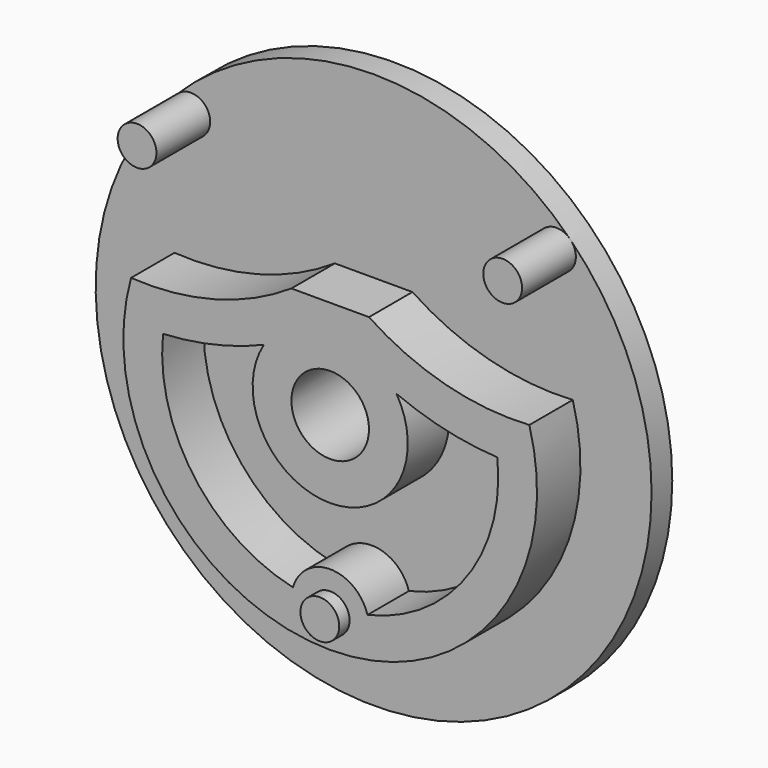
from build123d import *

# Parameters (mm, degrees)
SKETCH_R        = 21.5
PAD_DEPTH       = 2
SKETCH031_R     = 1.5
PAD015_DEPTH    = 5.2
PAD016_DEPTH    = 4.2
SKETCH032_R     = 1.5
PAD017_DEPTH    = 1
POCKET018_DEPTH = 4
SKETCH036_R     = 3
POCKET019_DEPTH = 7.201
SKETCH038_R     = 3
POCKET022_DEPTH = 7.201


with BuildPart() as part:
    # Sketch → Pad (new body)
    with BuildSketch(Plane.XZ):
        Circle(SKETCH_R)
    extrude(amount=PAD_DEPTH)

    # Sketch031 (on Face3 of Pad) → Pad015 (join)
    with BuildSketch(Plane.XZ.offset(2)):
        with Locations((-14.142136, 14.142136)):
            Circle(SKETCH031_R)
        with Locations((14.142136, 14.142136)):
            Circle(SKETCH031_R)
    extrude(amount=PAD015_DEPTH)

    # Sketch017 (on Face3 of Pad) → Pad016 (join)
    with BuildSketch(Plane.XZ.offset(2)):
        with BuildLine():
            ThreePointArc((-15.403137, 4.329363), (-8.931504, 4.97358), (-3, 7.640846))
            Line((-3, 7.640846), (3, 7.640846))
            ThreePointArc((3, 7.640846), (8.931504, 4.97358), (15.403137, 4.329363))
            ThreePointArc((-15.403137, 4.329363), (0, -16), (15.403137, 4.329363))
        make_face()
    extrude(amount=PAD016_DEPTH)

    # Sketch032 (on Face11 of Pad016) → Pad017 (join)
    with BuildSketch(Plane.XZ.offset(6.2)):
        with Locations((0, -13.5)):
            Circle(SKETCH032_R)
    extrude(amount=PAD017_DEPTH)

    # Sketch035 (on Face11 of Pad017) → Pocket018 (cut)
    with BuildSketch(Plane.XZ.offset(6.2)):
        with BuildLine():
            ThreePointArc((-12.932656, 1.321513), (-8.953461, 1.877631), (-5.129887, 3.111954))
            ThreePointArc((-5.129887, 3.111954), (0, -6), (5.129887, 3.111954))
            ThreePointArc((5.129887, 3.111954), (8.953461, 1.877631), (12.932656, 1.321513))
            ThreePointArc((2.884597, -12.675926), (10.560703, -7.580999), (12.932656, 1.321513))
            ThreePointArc((2.884597, -12.675926), (0, -10.5), (-2.884597, -12.675926))
            ThreePointArc((-12.932656, 1.321513), (-10.560703, -7.580999), (-2.884597, -12.675926))
        make_face()
    extrude(amount=-POCKET018_DEPTH, mode=Mode.SUBTRACT)

    # Sketch036 (on Face2 of Pocket018) → Pocket019 (cut, through all)
    with BuildSketch(Plane(origin=(0, 0, 0), x_dir=(1, 0, 0), z_dir=(0, 1, 0))):
        Circle(SKETCH036_R)
    extrude(amount=-POCKET019_DEPTH, mode=Mode.SUBTRACT)

    # Sketch038 (on Face2 of Pad016) → Pocket022 (cut, through all)
    with BuildSketch(Plane(origin=(0, 0, 0), x_dir=(1, 0, 0), z_dir=(0, 1, 0))):
        Circle(SKETCH038_R)
    extrude(amount=-POCKET022_DEPTH, mode=Mode.SUBTRACT)


with BuildPart() as part_1:
    # Body placement: moved
    add(part.part.moved(Location((0, -3, 0))))


solid = part_1.part
